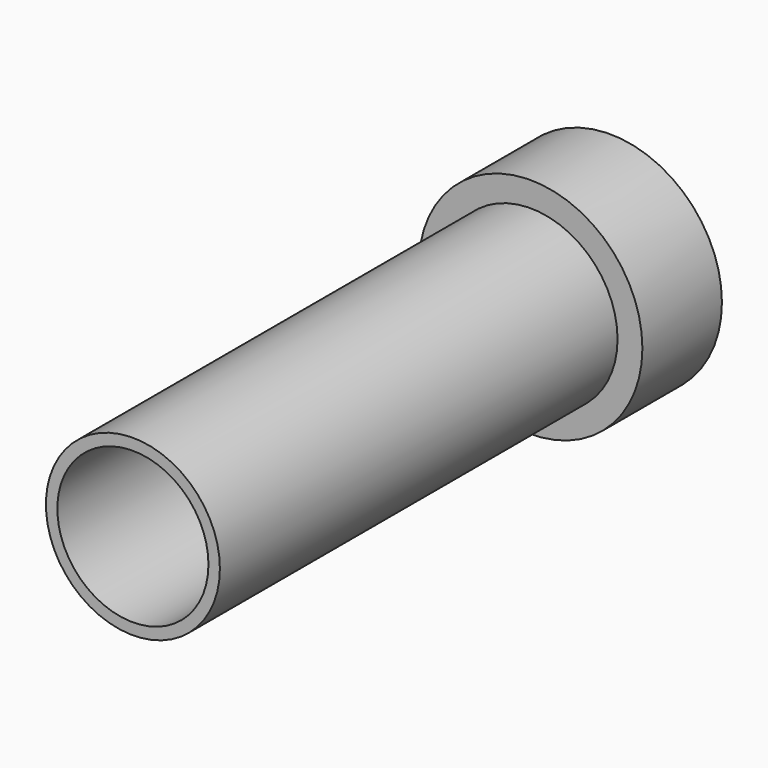
from build123d import *

# Parameters (mm, degrees)
F0_R     = 17.5
F0_R_2   = 15.2
F0_R_3   = 22.5
F1_DEPTH = 20
F2_DEPTH = 120


with BuildPart() as f1:
    # F0 (on Front) → F1 (new body)
    with BuildSketch(Plane.XZ):
        Circle(F0_R)
        Circle(F0_R_2, mode=Mode.SUBTRACT)
        Circle(F0_R_3)
        Circle(F0_R, mode=Mode.SUBTRACT)
    extrude(amount=F1_DEPTH)

    # F0 (on Front) → F2 (join)
    with BuildSketch(Plane.XZ):
        Circle(F0_R)
        Circle(F0_R_2, mode=Mode.SUBTRACT)
    extrude(amount=F2_DEPTH)


solid = f1.part
